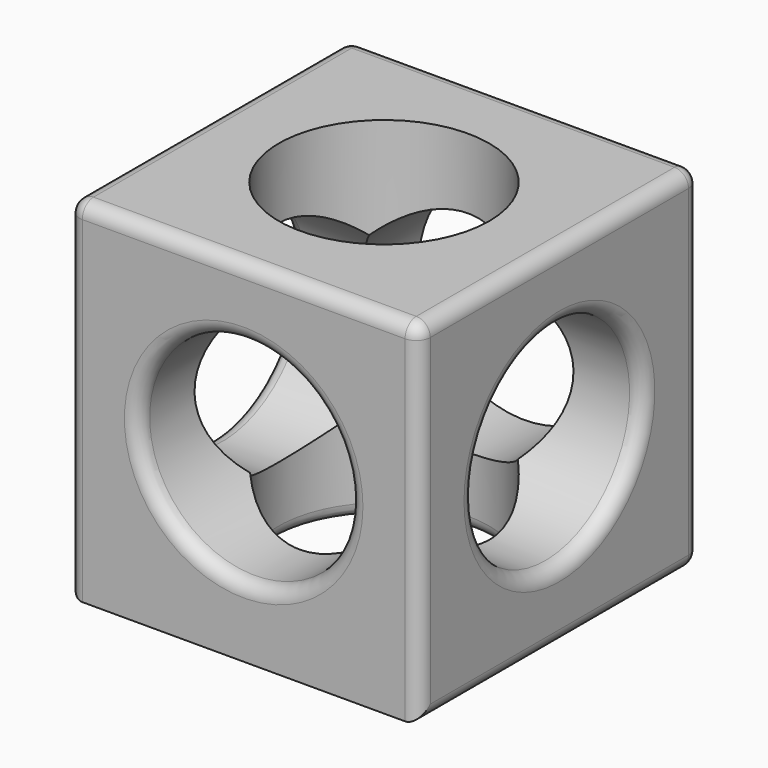
from build123d import *

# Parameters (mm, degrees)
F0_W     = 127
F0_H     = 127
F1_DEPTH = 127
F2_R     = 38.1
F3_DEPTH = 127
F4_R     = 38.1
F5_DEPTH = 127
F6_R     = 38.1
F7_DEPTH = 127
F8_R     = 5.08


with BuildPart() as f1:
    # F0 (on Top) → F1 (new body)
    with BuildSketch(Plane.XY):
        with Locations((5.959775, -5.865746)):
            Rectangle(F0_W, F0_H)
    extrude(amount=F1_DEPTH)

    # F2 (on face) → F3 (cut)
    with BuildSketch(Plane(origin=(-57.540225, 0, 0), x_dir=(0, -1, 0), z_dir=(-1, 0, 0))):
        with Locations((5.865746, 63.5)):
            Circle(F2_R)
    extrude(amount=-F3_DEPTH, mode=Mode.SUBTRACT)

    # F4 (on face) → F5 (cut)
    with BuildSketch(Plane.XZ.offset(69.365746)):
        with Locations((5.959775, 63.5)):
            Circle(F4_R)
    extrude(amount=-F5_DEPTH, mode=Mode.SUBTRACT)

    # F6 (on face) → F7 (cut)
    with BuildSketch(Plane(origin=(0, 0, 0), x_dir=(1, 0, 0), z_dir=(0, 0, -1))):
        with Locations((5.959775, 5.865746)):
            Circle(F6_R)
    extrude(amount=-F7_DEPTH, mode=Mode.SUBTRACT)

    # F8
    f8_edges = [f1.edges().sort_by_distance(p)[0] for p in [
        (-57.540225, 57.634254, 63.5),
        (5.959775, 57.634254, 0),
        (69.459775, 57.634254, 63.5),
        (5.959775, 57.634254, 127),
        (-57.540225, -5.865746, 0),
        (-57.540225, -69.365746, 63.5),
        (-57.540225, -5.865746, 127),
        (5.959775, -69.365746, 127),
        (69.459775, -5.865746, 127),
        (69.459775, -5.865746, 0),
        (69.459775, -69.365746, 63.5),
        (69.459775, 32.234254, 63.5),
        (-32.140225, -5.865746, 0),
        (-57.540225, 32.234254, 63.5),
        (-32.140225, -69.365746, 63.5),
    ]]
    fillet(f8_edges, radius=F8_R)


solid = f1.part
